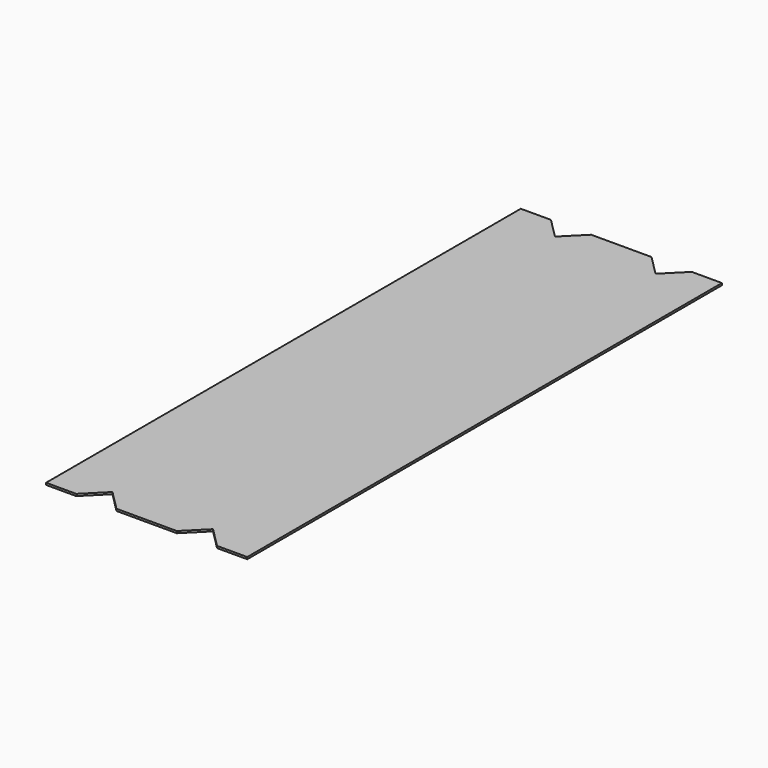
from build123d import *

# Parameters (mm, degrees)
F0_W     = 200
F0_H     = 450
F1_DEPTH = 2


with BuildPart() as f1:
    # F0 (on Top) → F1 (new body)
    with BuildSketch(Plane.XY):
        Polygon((-47.865819, 70), (-47.865819, 0), (152.134181, 0), (152.134181, 70), (122.134181, 70), (102.134181, 50), (82.134181, 70), (22.134181, 70), (2.134181, 50), (-17.865819, 70), align=None)
        with Locations((52.134181, -225)):
            Rectangle(F0_W, F0_H)
        Polygon((152.134181, -450), (-47.865819, -450), (-47.865819, -520), (-17.865819, -520), (2.134181, -500), (22.134181, -520), (82.134181, -520), (102.134181, -500), (122.134181, -520), (152.134181, -520), align=None)
    extrude(amount=F1_DEPTH)


solid = f1.part
